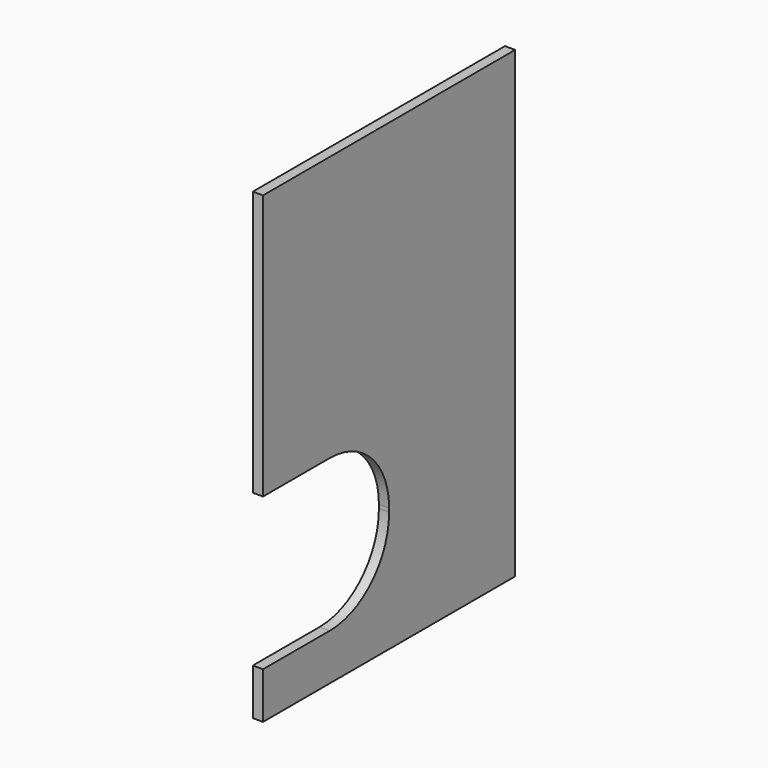
from build123d import *

# Parameters (mm, degrees)
F1_DEPTH = 5.5


with BuildPart() as f1:
    # F0 (on Right) → F1 (new body)
    with BuildSketch(Plane.YZ):
        with BuildLine():
            Line((-170, 0), (0, 0))
            Line((0, 0), (0, 190))
            Line((0, 190), (0, 250))
            Line((0, 250), (-60, 250))
            Line((-60, 250), (-170, 250))
            Line((-170, 250), (-170, 107))
            Line((-170, 107), (-125, 107))
            ThreePointArc((-125, 107), (-96.715729, 95.284271), (-85, 67))
            Line((-85, 67), (-85, 65))
            ThreePointArc((-85, 65), (-96.715729, 36.715729), (-125, 25))
            Line((-125, 25), (-170, 25))
            Line((-170, 25), (-170, 0))
        make_face()
    extrude(amount=F1_DEPTH)


solid = f1.part
